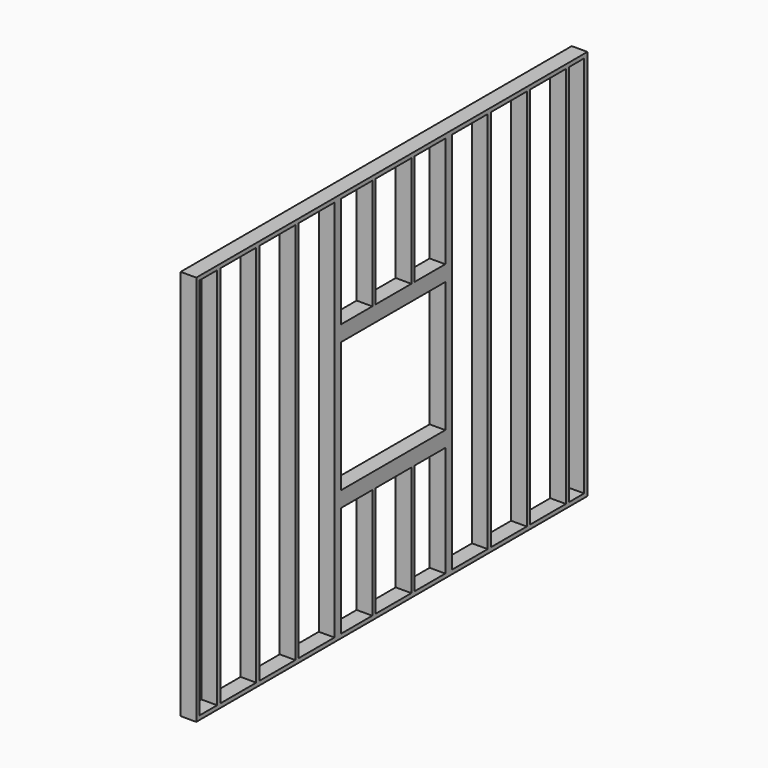
from build123d import *

# Parameters (mm, degrees)
F0_W     = 365.76
F0_H     = 1034.796
F0_W_2   = 419.1
F0_W_3   = 358.14
F0_W_4   = 205.74
F0_H_2   = 3581.4
F0_W_5   = 175.26
F1_DEPTH = 146.304


with BuildPart() as f1:
    # F0 (on Right) → F1 (new body)
    with BuildSketch(Plane.YZ):
        Polygon((0, 3657.6), (0, 0), (4572, 0), (4572, 38.1), (4572, 3619.5), (4572, 3657.6), align=None)
        with Locations((1874.52, 555.498)):
            Rectangle(F0_W, F0_H, mode=Mode.SUBTRACT)
        with Locations((2305.05, 555.498)):
            Rectangle(F0_W_2, F0_H, mode=Mode.SUBTRACT)
        with Locations((2731.77, 555.498)):
            Rectangle(F0_W_3, F0_H, mode=Mode.SUBTRACT)
        with Locations((140.97, 1828.8)):
            Rectangle(F0_W_4, F0_H_2, mode=Mode.SUBTRACT)
        with Locations((491.49, 1828.8)):
            Rectangle(F0_W_2, F0_H_2, mode=Mode.SUBTRACT)
        with Locations((948.69, 1828.8)):
            Rectangle(F0_W_2, F0_H_2, mode=Mode.SUBTRACT)
        with Locations((1405.89, 1828.8)):
            Rectangle(F0_W_2, F0_H_2, mode=Mode.SUBTRACT)
        with Locations((1874.52, 3102.102)):
            Rectangle(F0_W, F0_H, mode=Mode.SUBTRACT)
        Polygon((1691.64, 1219.2), (1691.64, 2438.4), (2057.4, 2438.4), (2514.6, 2438.4), (2552.7, 2438.4), (2910.84, 2438.4), (2910.84, 1219.2), (2552.7, 1219.2), (2514.6, 1219.2), (2095.5, 1219.2), align=None, mode=Mode.SUBTRACT)
        with Locations((3196.59, 1828.8)):
            Rectangle(F0_W_2, F0_H_2, mode=Mode.SUBTRACT)
        with Locations((3653.79, 1828.8)):
            Rectangle(F0_W_2, F0_H_2, mode=Mode.SUBTRACT)
        with Locations((4110.99, 1828.8)):
            Rectangle(F0_W_2, F0_H_2, mode=Mode.SUBTRACT)
        with Locations((4446.27, 1828.8)):
            Rectangle(F0_W_5, F0_H_2, mode=Mode.SUBTRACT)
        with Locations((2305.05, 3102.102)):
            Rectangle(F0_W_2, F0_H, mode=Mode.SUBTRACT)
        with Locations((2731.77, 3102.102)):
            Rectangle(F0_W_3, F0_H, mode=Mode.SUBTRACT)
    extrude(amount=F1_DEPTH)


solid = f1.part
